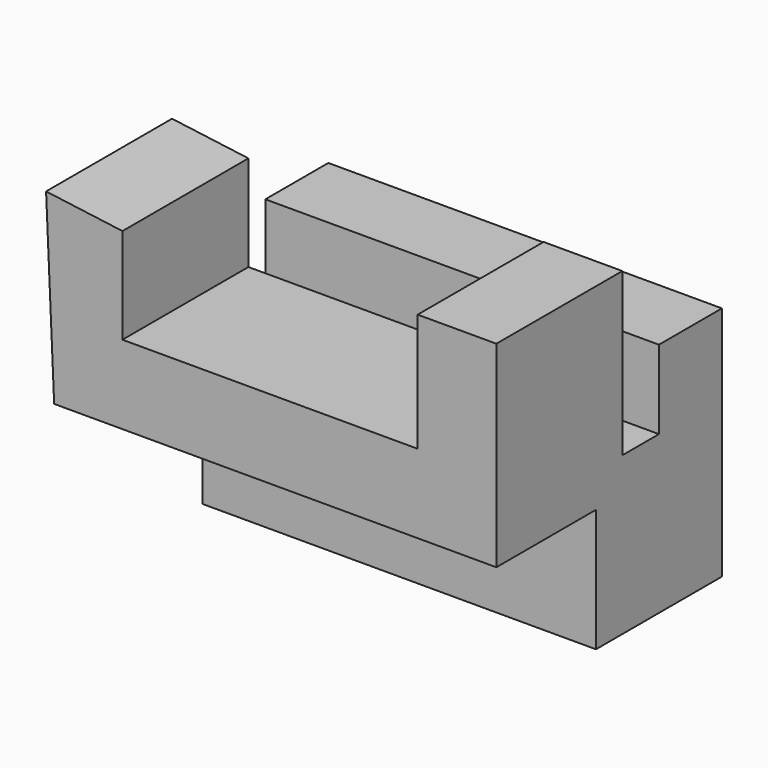
from build123d import *

# Parameters (mm, degrees)
F1_DEPTH = 101.6
F3_DEPTH = 254


with BuildPart() as f1:
    # F0 (on Front) → F1 (new body)
    with BuildSketch(Plane.XZ):
        Polygon((-31.363741, 0), (0, 0), (254, 0), (254, 127), (203.2, 127), (203.2, 50.8), (12.7, 50.8), (12.7, 112.531804), (-36.5729, 119.043261), align=None)
    extrude(amount=-F1_DEPTH)

    # F2 (on Right) → F3 (join)
    with BuildSketch(Plane.YZ):
        Polygon((80.338995, 22.33608), (80.338995, -79.26392), (181.938995, -79.26392), (181.938995, 73.13608), (131.138995, 73.13608), (131.138995, 22.33608), align=None)
    extrude(amount=F3_DEPTH)


solid = f1.part
